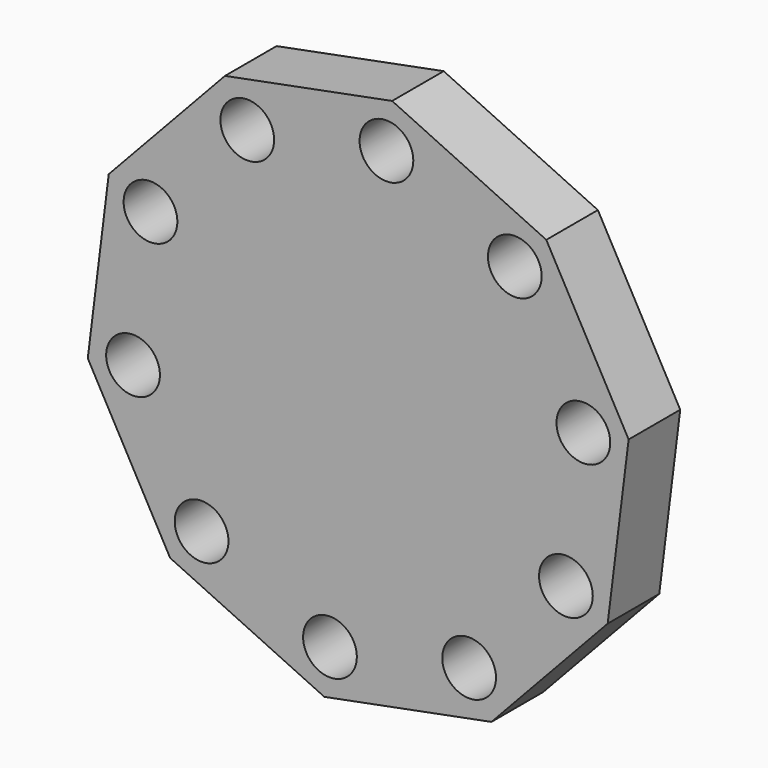
from build123d import *

# Parameters (mm, degrees)
F0_R     = 15.875
F1_DEPTH = 38.1


with BuildPart() as f1:
    # F0 (on Front) → F1 (new body)
    with BuildSketch(Plane.XZ):
        Polygon((24.201399, -89.930544), (92.873329, -16.472389), (105.252468, 83.320855), (56.610405, 171.33156), (-34.473246, 213.942629), (-133.207625, 194.878081), (-201.879555, 121.419927), (-214.258694, 21.626683), (-165.616631, -66.384023), (-74.532981, -108.995092), align=None)
        with Locations((-147.017439, -46.488524)):
            Circle(F0_R, mode=Mode.SUBTRACT)
        with Locations((-71.180199, -81.966965)):
            Circle(F0_R, mode=Mode.SUBTRACT)
        with Locations((-187.517351, 26.790149)):
            Circle(F0_R, mode=Mode.SUBTRACT)
        with Locations((11.027121, -66.093614)):
            Circle(F0_R, mode=Mode.SUBTRACT)
        with Locations((68.204119, -4.931554)):
            Circle(F0_R, mode=Mode.SUBTRACT)
        with Locations((-177.210345, 109.879091)):
            Circle(F0_R, mode=Mode.SUBTRACT)
        with Locations((-120.033347, 171.041152)):
            Circle(F0_R, mode=Mode.SUBTRACT)
        with Locations((78.511125, 78.157389)):
            Circle(F0_R, mode=Mode.SUBTRACT)
        with Locations((-37.826027, 186.914502)):
            Circle(F0_R, mode=Mode.SUBTRACT)
        with Locations((38.011213, 151.436061)):
            Circle(F0_R, mode=Mode.SUBTRACT)
    extrude(amount=-F1_DEPTH)


solid = f1.part
